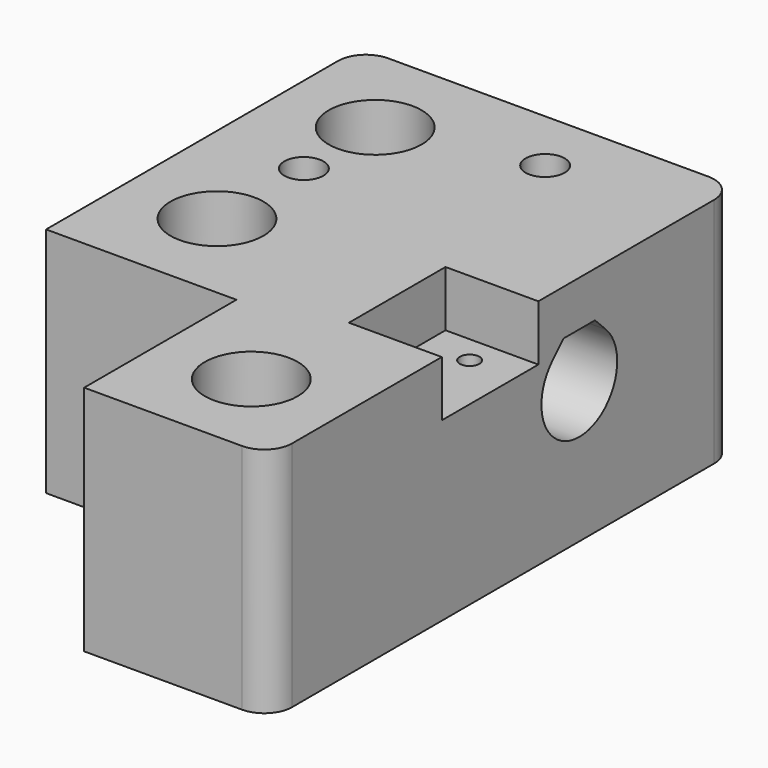
from build123d import *

# Parameters (mm, degrees)
EXTRUDE_DEPTH     = 20
BOX003_W          = 15
BOX003_H          = 7.5
BOX003_DEPTH      = 6
CYLINDER003_R     = 2.1
CYLINDER003_DEPTH = 5
CYLINDER002_R     = 1.05
CYLINDER002_DEPTH = 7
BOX002_W          = 10
BOX002_H          = 13
BOX002_DEPTH      = 6
CYLINDER001_R     = 2
CYLINDER001_DEPTH = 5
CYLINDER_R        = 5
CYLINDER_DEPTH    = 20
BOX001_W          = 20.5
BOX001_H          = 20.5
BOX001_DEPTH      = 25
BOX004_W          = 7.5
BOX004_H          = 13
BOX004_DEPTH      = 6
BOX_W             = 40.5
BOX_H             = 62.8
BOX_DEPTH         = 25
FILLET_R          = 3


with BuildPart() as obj1:
    # Sketch → Extrude (new body)
    with BuildSketch(Plane.YZ):
        with BuildLine():
            ThreePointArc((-3.606243, 3.606246), (0, -5.1), (3.606243, 3.606246))
            Line((2.112489, 5.1), (3.606243, 3.606246))
            Line((-2.112489, 5.1), (2.112489, 5.1))
            Line((-3.606243, 3.606246), (-2.112489, 5.1))
        make_face()
    extrude(amount=EXTRUDE_DEPTH)


with BuildPart() as obj1_1:
    # Extrude placement: moved
    add(obj1.part.moved(Location((20.5, 41.65, 15))))


with BuildPart() as hueco_taladro4:
    # Box003 → Box003 (new body)
    with BuildSketch(Plane(origin=(0, 39, 14), x_dir=(1, 0, 0), z_dir=(0, 0, 1))):
        with Locations((7.5, 3.75)):
            Rectangle(BOX003_W, BOX003_H)
    extrude(amount=BOX003_DEPTH)


with BuildPart() as taladro4:
    # Cylinder003 → Cylinder003 (new body)
    with BuildSketch(Plane(origin=(10, 42.7, 20), x_dir=(1, 0, 0), z_dir=(0, 0, 1))):
        Circle(CYLINDER003_R)
    extrude(amount=CYLINDER003_DEPTH)


with BuildPart() as clone005:
    # Clone005 base: copy of taladro4
    add(taladro4.part)


with BuildPart() as clone005_1:
    # Clone005 placement: moved
    add(clone005.part.moved(Location((15.5, 13.1, 0))))


with BuildPart() as taladro_endstop:
    # Cylinder002 → Cylinder002 (new body)
    with BuildSketch(Plane(origin=(35.5, 26.14, 12), x_dir=(1, 0, 0), z_dir=(0, 0, 1))):
        Circle(CYLINDER002_R)
    extrude(amount=CYLINDER002_DEPTH)


with BuildPart() as clone004:
    # Clone004 base: copy of taladro_endstop
    add(taladro_endstop.part)


with BuildPart() as clone004_1:
    # Clone004 placement: moved
    add(clone004.part.moved(Location((0, 7, 0))))


with BuildPart() as hueco_endstop:
    # Box002 → Box002 (new body)
    with BuildSketch(Plane(origin=(30.5, 23.14, 19), x_dir=(1, 0, 0), z_dir=(0, 0, 1))):
        with Locations((5, 6.5)):
            Rectangle(BOX002_W, BOX002_H)
    extrude(amount=BOX002_DEPTH)


with BuildPart() as taladro5:
    # Cylinder001 → Cylinder001 (new body)
    with BuildSketch(Plane(origin=(30.5, 10, 0), x_dir=(1, 0, 0), z_dir=(0, 0, 1))):
        Circle(CYLINDER001_R)
    extrude(amount=CYLINDER001_DEPTH)


with BuildPart() as clone002:
    # Clone002 base: copy of taladro5
    add(taladro5.part)


with BuildPart() as clone002_1:
    # Clone002 placement: moved
    add(clone002.part.moved(Location((-20.5, 21, 0))))


with BuildPart() as clone003:
    # Clone003 base: copy of Clone002
    add(clone002_1.part)


with BuildPart() as clone003_1:
    # Clone003 placement: moved
    add(clone003.part.moved(Location((0, 21.3, 0))))


with BuildPart() as taladro10:
    # Cylinder → Cylinder (new body)
    with BuildSketch(Plane(origin=(30.5, 10, 5), x_dir=(1, 0, 0), z_dir=(0, 0, 1))):
        Circle(CYLINDER_R)
    extrude(amount=CYLINDER_DEPTH)


with BuildPart() as clone:
    # Clone base: copy of taladro10
    add(taladro10.part)


with BuildPart() as clone_1:
    # Clone placement: moved
    add(clone.part.moved(Location((-20.5, 21, 0))))


with BuildPart() as clone001:
    # Clone001 base: copy of Clone
    add(clone_1.part)


with BuildPart() as clone001_1:
    # Clone001 placement: moved
    add(clone001.part.moved(Location((0, 21.3, 0))))


with BuildPart() as obj2:
    # Box001 → Box001 (new body)
    with BuildSketch(Plane.XY):
        with Locations((10.25, 10.25)):
            Rectangle(BOX001_W, BOX001_H)
    extrude(amount=BOX001_DEPTH)


with BuildPart() as huecos:
    # Box004 → Box004 (new body)
    with BuildSketch(Plane(origin=(21.75, 49.8, 14), x_dir=(1, 0, 0), z_dir=(0, 0, 1))):
        with Locations((3.75, 6.5)):
            Rectangle(BOX004_W, BOX004_H)
    extrude(amount=BOX004_DEPTH)

    # Fusion: union hueco_taladro4, Clone005, taladro4, Clone004, taladro_endstop, hueco_endstop, Clone003, Clone002, taladro5, Clone001, Clone, taladro10, obj2
    add(hueco_taladro4.part)
    add(clone005_1.part)
    add(taladro4.part)
    add(clone004_1.part)
    add(taladro_endstop.part)
    add(hueco_endstop.part)
    add(clone003_1.part)
    add(clone002_1.part)
    add(taladro5.part)
    add(clone001_1.part)
    add(clone_1.part)
    add(taladro10.part)
    add(obj2.part)


with BuildPart() as obj3:
    # Box → Box (new body)
    with BuildSketch(Plane.XY):
        with Locations((20.25, 31.4)):
            Rectangle(BOX_W, BOX_H)
    extrude(amount=BOX_DEPTH)

    # Cut: cut huecos
    add(huecos.part, mode=Mode.SUBTRACT)

    # Cut001: cut obj1
    add(obj1_1.part, mode=Mode.SUBTRACT)

    # Fillet
    fillet_edges = [obj3.edges().sort_by_distance(p)[0] for p in [
        (0, 62.8, 12.5),
        (40.5, 62.8, 12.5),
        (40.5, 0, 12.5),
    ]]
    fillet(fillet_edges, radius=FILLET_R)


solid = obj3.part
